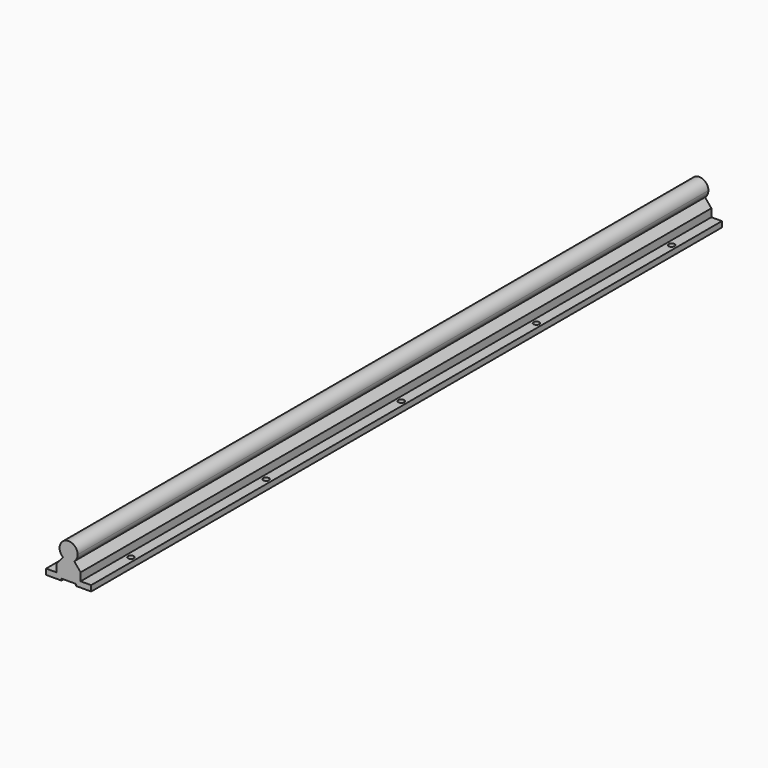
from build123d import *

# Parameters (mm, degrees)
F1_DEPTH = 700
F2_W     = 12.7
F2_H     = 1150
F3_DEPTH = 1.5875
F4_R     = 2.6162
F5_DEPTH = 33.001


with BuildPart() as f1:
    # F0 (on Front) → F1 (new body)
    with BuildSketch(Plane.XZ):
        with BuildLine():
            ThreePointArc((5, -6.244998), (7.211103, -3.464102), (8, 0))
            ThreePointArc((8, 0), (-3.464102, 7.211103), (-5, -6.244998))
            ThreePointArc((-5, -6.244998), (0, -8), (5, -6.244998))
        make_face()
        with BuildLine():
            ThreePointArc((5, -6.244998), (0, -8), (-5, -6.244998))
            Line((-5, -6.244998), (-10.66812, -13))
            Line((-10.66812, -13), (-10.66812, -20))
            Line((-10.66812, -20), (-20, -20))
            Line((-20, -20), (-20, -25))
            Line((-20, -25), (20, -25))
            Line((20, -25), (20, -20))
            Line((20, -20), (16.541817, -20))
            Line((16.541817, -20), (10.66812, -20))
            Line((10.66812, -20), (10.66812, -13))
            Line((10.66812, -13), (5, -6.244998))
        make_face()
    extrude(amount=F1_DEPTH)

    # F2 (on face) → F3 (cut)
    with BuildSketch(Plane(origin=(0, 0, -25), x_dir=(1, 0, 0), z_dir=(0, 0, -1))):
        with Locations((0, 575)):
            Rectangle(F2_W, F2_H)
    extrude(amount=-F3_DEPTH, mode=Mode.SUBTRACT)

    # F4 (on face) → F5 (cut, through all)
    with BuildSketch(Plane(origin=(0, 0, -25), x_dir=(1, 0, 0), z_dir=(0, 0, -1))):
        with Locations((-15.3391, 350)):
            Circle(F4_R)
        with Locations((15.3441, 350)):
            Circle(F4_R)
        with Locations((15.3441, 650)):
            Circle(F4_R)
        with Locations((-15.3391, 650)):
            Circle(F4_R)
        with Locations((15.3441, 500)):
            Circle(F4_R)
        with Locations((-15.3391, 500)):
            Circle(F4_R)
        with Locations((15.3441, 200)):
            Circle(F4_R)
        with Locations((-15.3391, 200)):
            Circle(F4_R)
        with Locations((15.3441, 50)):
            Circle(F4_R)
        with Locations((-15.3391, 50)):
            Circle(F4_R)
    extrude(amount=-F5_DEPTH, mode=Mode.SUBTRACT)


solid = f1.part
